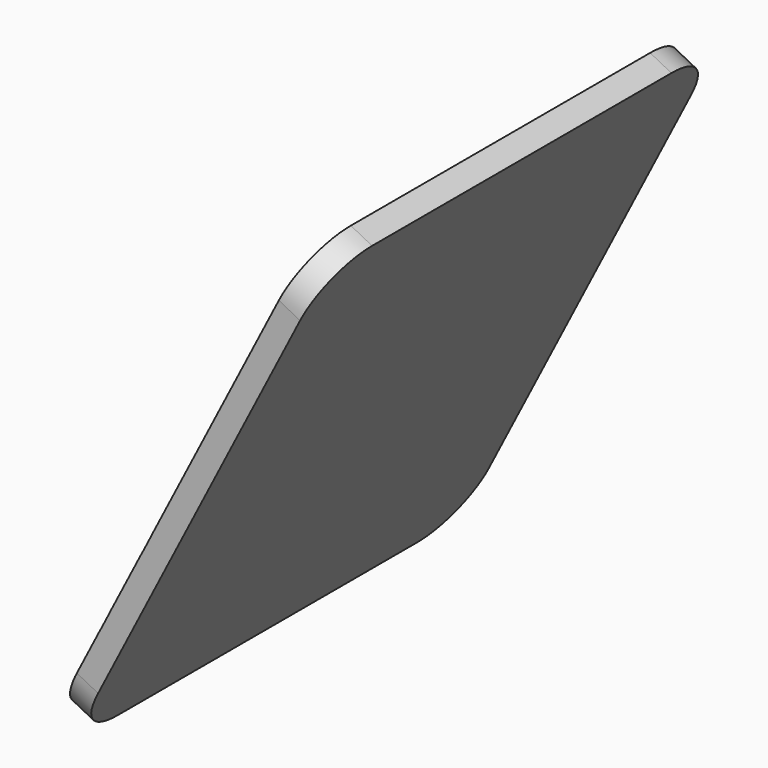
from build123d import *

# Parameters (mm, degrees)
PAD003_DEPTH    = 0.3
SKETCH013_W     = 6.14
SKETCH013_H     = 0.25
POCKET009_DEPTH = 0.001
POCKET010_DEPTH = 0.001


with BuildPart() as part:
    # Sketch012 (on Face1 of Binder003) → Pad003 (new body)
    with BuildSketch(Plane(origin=(25.7763153586, 0, -13.2186232608), x_dir=(0, -1, 0), z_dir=(-0.8898174628, 0, 0.4563166476))):
        with BuildLine():
            Line((-3.1497057125, 24.5214914082), (-3.1497057125, 18.9611513515))
            ThreePointArc((-3.1497057125, 18.9611513515), (-2.9388225949, 18.452034469), (-2.4297057125, 18.2411513515))
            Line((-2.4297057125, 18.2411513515), (2.2702942875, 18.2411513515))
            ThreePointArc((2.2702942875, 18.2411513515), (2.77941117, 18.452034469), (2.9902942875, 18.9611513515))
            Line((2.9902942875, 18.9611513515), (2.9902942875, 24.5214914082))
            ThreePointArc((2.9902942875, 24.5214914082), (2.77941117, 25.0306082907), (2.2702942875, 25.2414914082))
            Line((2.2702942875, 25.2414914082), (-2.4297057125, 25.2414914082))
            ThreePointArc((-2.4297057125, 25.2414914082), (-2.9388225949, 25.0306082907), (-3.1497057125, 24.5214914082))
        make_face()
    extrude(amount=PAD003_DEPTH)

    # Sketch013 (on Face10 of Pad003) → Pocket009 (cut)
    with BuildSketch(Plane(origin=(25.5093701197, 0, -13.0817282665), x_dir=(0, -1, 0), z_dir=(-0.8898174628, 0, 0.4563166476))):
        with Locations((-0.0797057125, 19.748978)):
            Rectangle(SKETCH013_W, SKETCH013_H)
        with Locations((-0.0797057125, 18.698219)):
            Rectangle(SKETCH013_W, SKETCH013_H)
        with Locations((-0.0797057125, 20.86224)):
            Rectangle(SKETCH013_W, SKETCH013_H)
    extrude(amount=-POCKET009_DEPTH, mode=Mode.SUBTRACT)

    # Sketch014 (on Face12 of Pocket009) → Pocket010 (cut)
    with BuildSketch(Plane(origin=(25.5093701197, 0, -13.0817282665), x_dir=(0, -1, 0), z_dir=(-0.8898174628, 0, 0.4563166476))):
        Polygon((-1.0997057125, 20.98724), (-1.3497057125, 20.98724), (-0.0797057125, 23.55931), (1.1902942875, 20.98724), (0.9402942875, 20.98724), (-0.0797057125, 23.022278), align=None)
    extrude(amount=-POCKET010_DEPTH, mode=Mode.SUBTRACT)


solid = part.part
